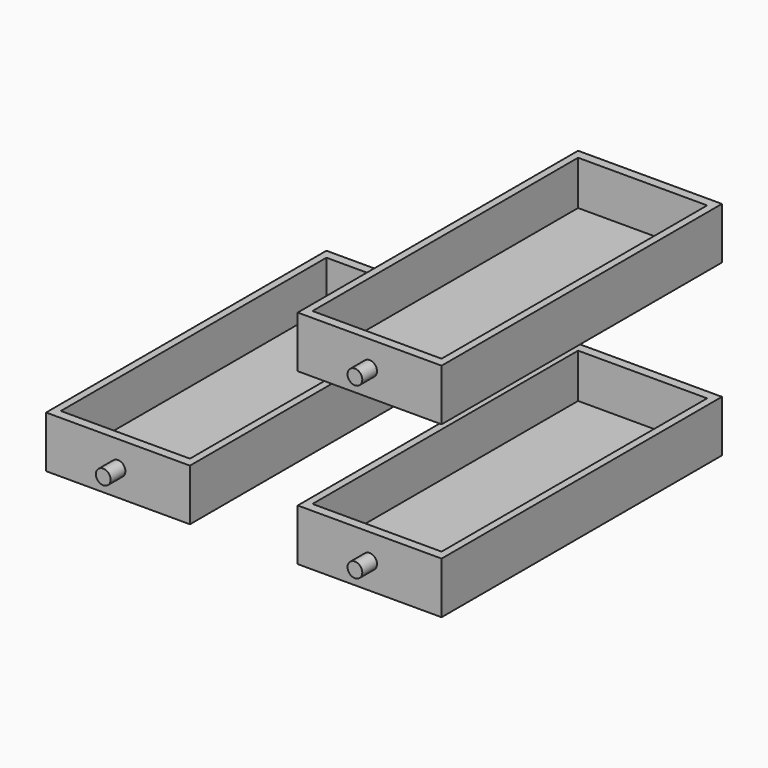
from build123d import *

# Parameters (mm, degrees)
F0_W     = 39
F0_H     = 95
F0_W_2   = 35
F0_H_2   = 90
F1_DEPTH = 14
F2_DEPTH = 2
F3_R     = 2
F4_DEPTH = 5


with BuildPart() as f1:
    # F0 (on Top) → F1 (new body)
    with BuildSketch(Plane.XY):
        with Locations((19.5, 47.5)):
            Rectangle(F0_W, F0_H)
        with Locations((19.5, 47.5)):
            Rectangle(F0_W_2, F0_H_2, mode=Mode.SUBTRACT)
    extrude(amount=F1_DEPTH)

    # F0 (on Top) → F2 (join)
    with BuildSketch(Plane.XY):
        with Locations((19.5, 47.5)):
            Rectangle(F0_W_2, F0_H_2)
    extrude(amount=F2_DEPTH)

    # F3 (on face) → F4 (join)
    with BuildSketch(Plane.XZ):
        with Locations((19.5, 7)):
            Circle(F3_R)
    extrude(amount=F4_DEPTH)


with BuildPart() as f5_1:
    # F5: copy of F1
    add(f1.part.moved(Location((68.22193, 0, 0))))


with BuildPart() as f6_1:
    # F6: copy of F5_1
    add(f5_1.part.moved(Location((0, 0, 46.04278))))


solid = Compound([f1.part, f5_1.part, f6_1.part])
